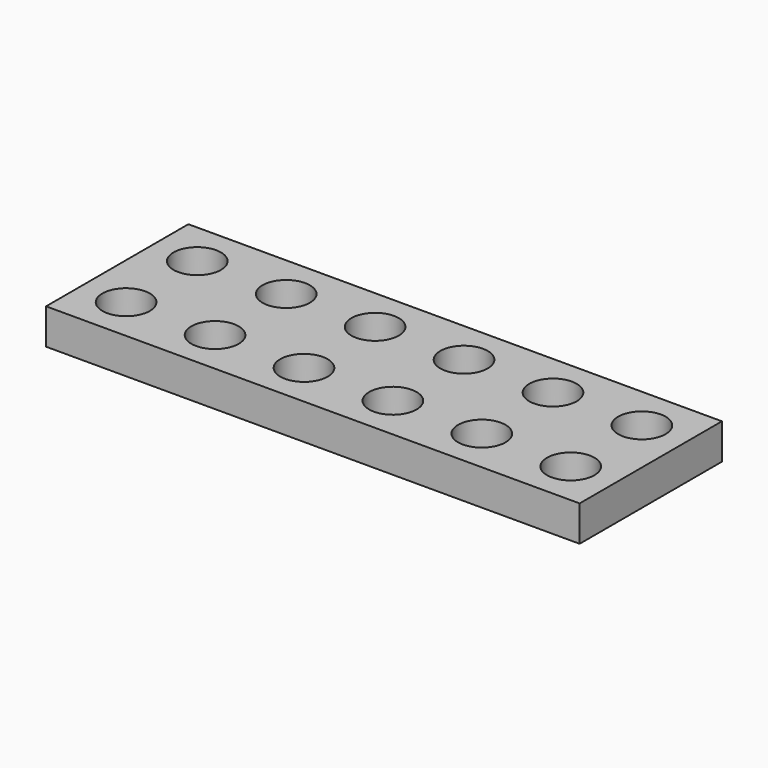
from build123d import *

# Parameters (mm, degrees)
F0_W     = 180
F0_H     = 60
F0_R     = 8
F1_DEPTH = 12


with BuildPart() as f1:
    # F0 (on Top) → F1 (new body)
    with BuildSketch(Plane.XY):
        with Locations((11.09897, -29.752857)):
            Rectangle(F0_W, F0_H)
        with Locations((-63.90103, -44.752857)):
            Circle(F0_R, mode=Mode.SUBTRACT)
        with Locations((-33.90103, -44.752857)):
            Circle(F0_R, mode=Mode.SUBTRACT)
        with Locations((-3.90103, -44.752857)):
            Circle(F0_R, mode=Mode.SUBTRACT)
        with Locations((26.09897, -44.752857)):
            Circle(F0_R, mode=Mode.SUBTRACT)
        with Locations((56.09897, -44.752857)):
            Circle(F0_R, mode=Mode.SUBTRACT)
        with Locations((86.09897, -44.752857)):
            Circle(F0_R, mode=Mode.SUBTRACT)
        with Locations((-63.90103, -14.752857)):
            Circle(F0_R, mode=Mode.SUBTRACT)
        with Locations((-33.90103, -14.752857)):
            Circle(F0_R, mode=Mode.SUBTRACT)
        with Locations((-3.90103, -14.752857)):
            Circle(F0_R, mode=Mode.SUBTRACT)
        with Locations((26.09897, -14.752857)):
            Circle(F0_R, mode=Mode.SUBTRACT)
        with Locations((56.09897, -14.752857)):
            Circle(F0_R, mode=Mode.SUBTRACT)
        with Locations((86.09897, -14.752857)):
            Circle(F0_R, mode=Mode.SUBTRACT)
    extrude(amount=F1_DEPTH)


solid = f1.part
